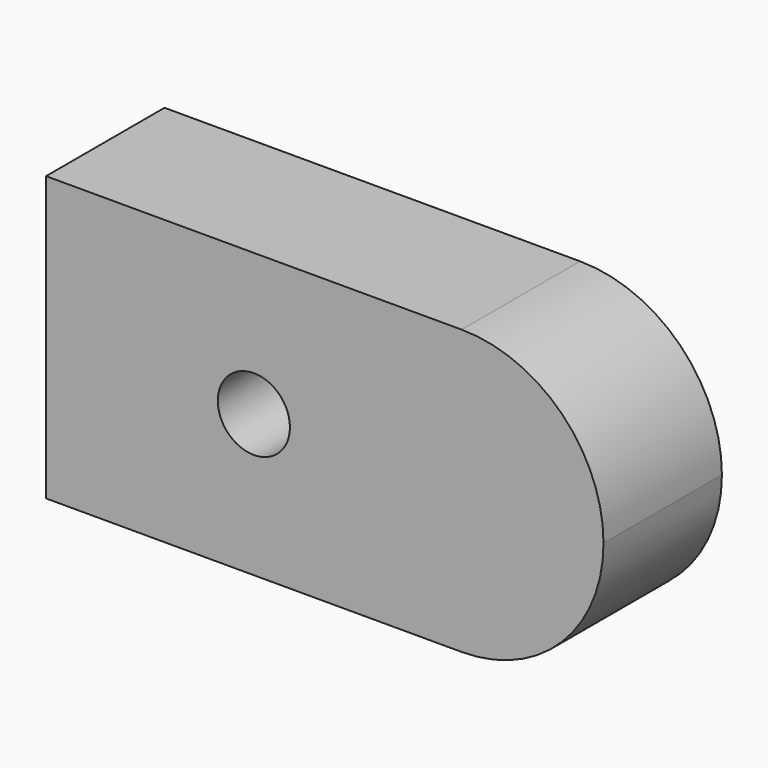
from build123d import *

# Parameters (mm, degrees)
F0_R     = 6.189108
F1_DEPTH = 25.4


with BuildPart() as f1:
    # F0 (on Front) → F1 (new body)
    with BuildSketch(Plane.XZ):
        with BuildLine():
            ThreePointArc((35.654567, -24.347987), (11.30658, 0), (35.654567, 24.347987))
            Line((35.654567, 24.347987), (-35.654567, 24.347987))
            Line((-35.654567, 24.347987), (-35.654567, -24.347987))
            Line((-35.654567, -24.347987), (35.654567, -24.347987))
        make_face()
        Circle(F0_R, mode=Mode.SUBTRACT)
        with BuildLine():
            Line((35.654567, -24.347987), (35.654567, 24.347987))
            ThreePointArc((35.654567, 24.347987), (11.30658, 0), (35.654567, -24.347987))
        make_face()
        with BuildLine():
            ThreePointArc((60.002554, 0), (52.871194, 17.216627), (35.654567, 24.347987))
            Line((35.654567, 24.347987), (35.654567, -24.347987))
            ThreePointArc((35.654567, -24.347987), (52.871194, -17.216627), (60.002554, 0))
        make_face()
    extrude(amount=F1_DEPTH)


solid = f1.part
